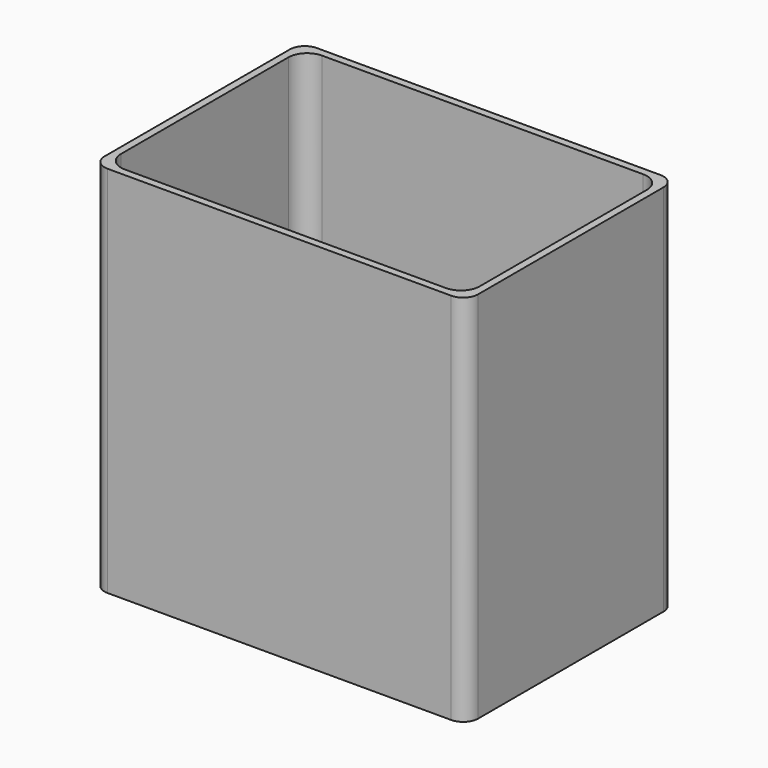
from build123d import *

# Parameters (mm, degrees)
F0_W     = 127
F0_H     = 88.9
F1_DEPTH = 127
F2_R     = 5.08
F4_DEPTH = 114.3
F6_DEPTH = 10.16


with BuildPart() as f1:
    # F0 (on Top) → F1 (new body)
    with BuildSketch(Plane.XY):
        with Locations((4.240815, 7.625027)):
            Rectangle(F0_W, F0_H)
    extrude(amount=F1_DEPTH)

    # F2
    f2_edges = [f1.edges().sort_by_distance(p)[0] for p in [
        (-59.259185, -36.824973, 63.5),
        (67.740815, -36.824973, 63.5),
        (67.740815, 52.075027, 63.5),
        (-59.259185, 52.075027, 63.5),
    ]]
    fillet(f2_edges, radius=F2_R)

    # F3 (on face) → F4 (cut)
    with BuildSketch(Plane.XY.offset(127)):
        with BuildLine():
            Line((58.850815, 49.535027), (-50.369185, 49.535027))
            ThreePointArc((-50.369185, 49.535027), (-54.859313, 47.675155), (-56.719185, 43.185027))
            Line((-56.719185, 43.185027), (-56.719185, -27.934973))
            ThreePointArc((-56.719185, -27.934973), (-54.859313, -32.425101), (-50.369185, -34.284973))
            Line((-50.369185, -34.284973), (58.850815, -34.284973))
            ThreePointArc((58.850815, -34.284973), (63.340943, -32.425101), (65.200815, -27.934973))
            Line((65.200815, -27.934973), (65.200815, 43.185027))
            ThreePointArc((65.200815, 43.185027), (63.340943, 47.675155), (58.850815, 49.535027))
        make_face()
    extrude(amount=-F4_DEPTH, mode=Mode.SUBTRACT)

    # F5 (on face) → F6 (cut)
    with BuildSketch(Plane(origin=(0, 0, 0), x_dir=(1, 0, 0), z_dir=(0, 0, -1))):
        with BuildLine():
            ThreePointArc((58.850815, -49.535027), (63.340943, -47.675155), (65.200815, -43.185027))
            Line((65.200815, -43.185027), (65.200815, 27.934973))
            ThreePointArc((65.200815, 27.934973), (63.340943, 32.425101), (58.850815, 34.284973))
            Line((58.850815, 34.284973), (-50.369185, 34.284973))
            ThreePointArc((-50.369185, 34.284973), (-54.859313, 32.425101), (-56.719185, 27.934973))
            Line((-56.719185, 27.934973), (-56.719185, -43.185027))
            ThreePointArc((-56.719185, -43.185027), (-54.859313, -47.675155), (-50.369185, -49.535027))
            Line((-50.369185, -49.535027), (58.850815, -49.535027))
        make_face()
    extrude(amount=-F6_DEPTH, mode=Mode.SUBTRACT)


solid = f1.part
